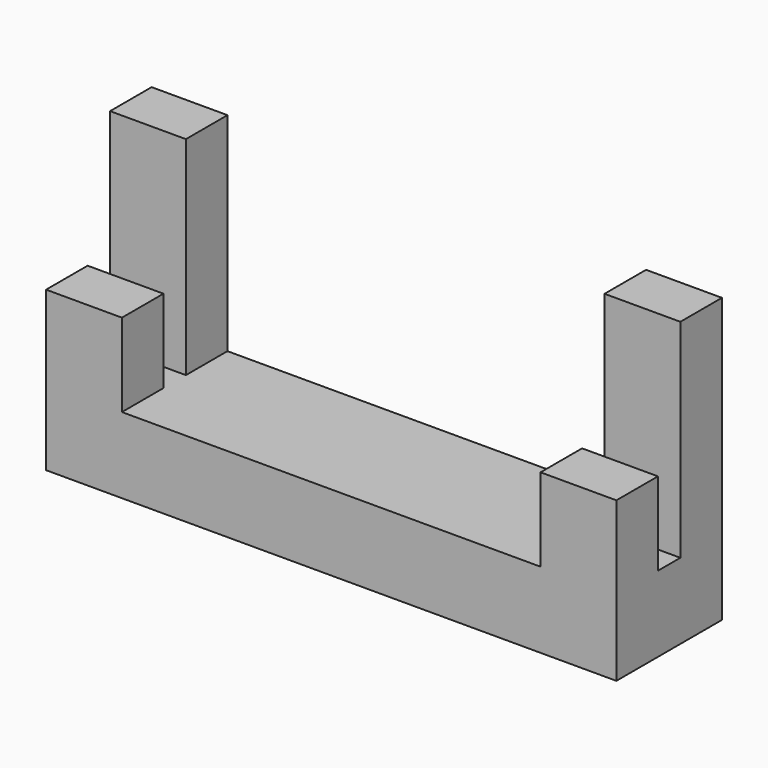
from build123d import *

# Parameters (mm, degrees)
F1_DEPTH = 12.7
F2_ANGLE = 270
F3_W     = 7.3
F3_H     = 12
F4_DEPTH = 7.2
F6_DEPTH = 54.9
F7_R     = 2.8925
F8_DEPTH = 3.5


with BuildPart() as f1:
    # F0 (on Top) → F1 (new body)
    with BuildSketch(Plane.XY):
        Polygon((20.15, 10), (20.15, 0), (20.15, -10), (-20.15, -10), (-20.15, 0), (-20.15, 10), (-27.45, 10), (-27.45, -10), (-27.45, -17.3), (27.45, -17.3), (27.45, -10), (27.45, 10), align=None)
    extrude(amount=F1_DEPTH)


with BuildPart() as f1_1:
    # F2: moved
    add(f1.part.rotate(Axis((0, -17.3, 12.7), (-1, 0, 0)), F2_ANGLE))

    # F3 (on face) → F4 (cut)
    with BuildSketch(Plane.XZ.offset(17.3)):
        with Locations((23.8, 34)):
            Rectangle(F3_W, F3_H)
        with Locations((-23.8, 34)):
            Rectangle(F3_W, F3_H)
    extrude(amount=-F4_DEPTH, mode=Mode.SUBTRACT)

    # F5 (on face) → F6 (cut)
    with BuildSketch(Plane.YZ.offset(27.45)):
        Polygon((-12.3, 40), (-12.3, 28), (-12.3, 20), (-9.6, 20), (-9.6, 40), align=None)
    extrude(amount=-F6_DEPTH, mode=Mode.SUBTRACT)

    # F7 (on face) → F8 (cut)
    with BuildSketch(Plane(origin=(0, 0, 12.7), x_dir=(1, 0, 0), z_dir=(0, 0, -1))):
        with Locations((0, 10.95)):
            Circle(F7_R)
    extrude(amount=-F8_DEPTH, mode=Mode.SUBTRACT)


with BuildPart() as f1_2:
    # F9: moved
    add(f1_1.part.moved(Location((0, 10.95, -12.7))))


solid = f1_2.part
